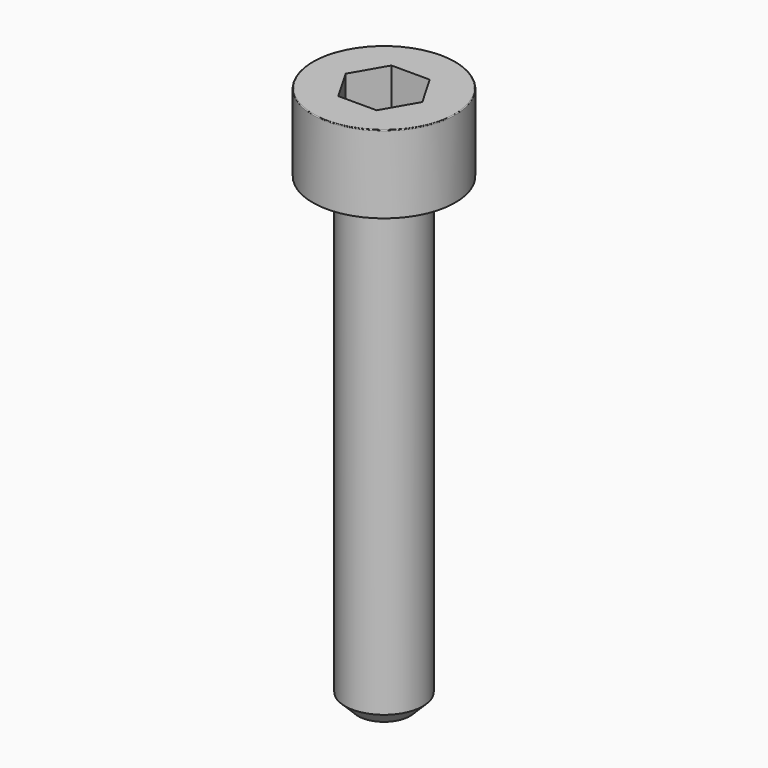
from build123d import *

# Parameters (mm, degrees)
POCKET_DEPTH = 2.56


with BuildPart() as part:
    # Sketch → Revolve (revolve)
    with BuildSketch(Plane.YZ):
        with BuildLine():
            Line((1.499, 0), (2.75, 0))
            Line((2.75, 0), (2.75, 2.97229))
            ThreePointArc((2.75, 2.97229), (2.741884, 2.991884), (2.72229, 3))
            Line((2.72229, 3), (0, 3))
            Line((0, -18), (0, 3))
            Line((1, -18), (0, -18))
            Line((1.5, -17.5), (1, -18))
            Line((1.5, -0.2), (1.5, -17.5))
            Line((1.499, 0), (1.5, -0.2))
        make_face()
    revolve(axis=Axis((0, 0, 0), (0, 0, 1)))

    # Sketch001 → Pocket (cut)
    with BuildSketch(Plane.XY.offset(3)):
        Polygon((1.478017, 0), (0.739008, 1.28), (-0.739008, 1.28), (-1.478017, 0), (-0.739008, -1.28), (0.739008, -1.28), align=None)
    extrude(amount=-POCKET_DEPTH, mode=Mode.SUBTRACT)


solid = part.part
